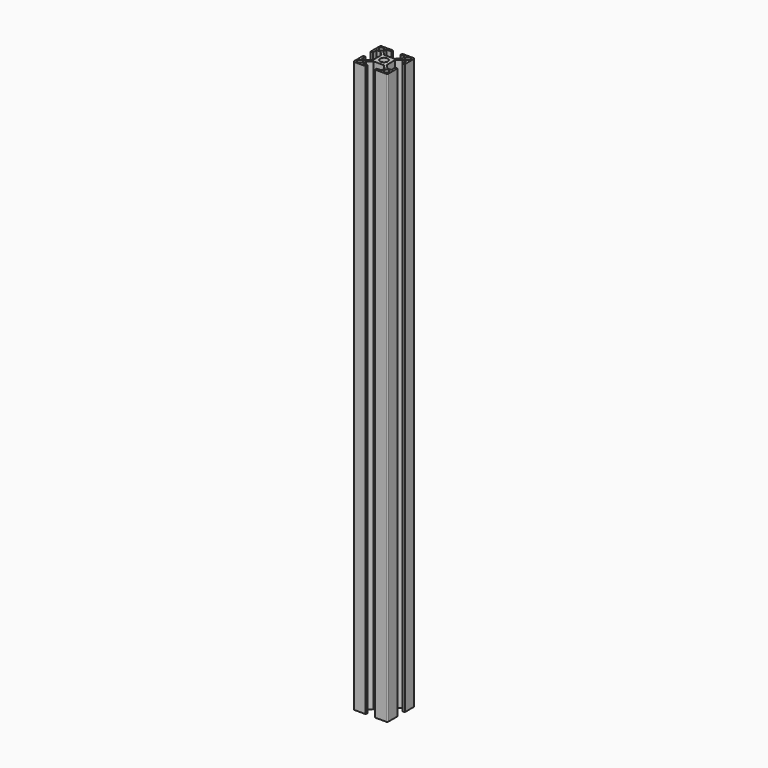
from build123d import *

# Parameters (mm, degrees)
SKETCH_R   = 2.1
SKETCH_R_2 = 3.4
PAD_DEPTH  = 500


with BuildPart() as part:
    # Sketch → Pad (new body)
    with BuildSketch(Plane.XY):
        with BuildLine():
            Line((-6, -4.585786), (-6, 4.585786))
            Line((-6, 4.585786), (-9.664214, 8.25))
            Line((-9.664214, 8.25), (-13, 8.25))
            Line((-13, 8.25), (-13, 4))
            Line((-13, 4), (-15, 4))
            Line((-15, 4), (-15, 14))
            ThreePointArc((-14, 15), (-14.707107, 14.707107), (-15, 14))
            Line((-4, 15), (-14, 15))
            Line((-4, 13), (-4, 15))
            Line((-8.25, 13), (-4, 13))
            Line((-8.25, 9.664214), (-8.25, 13))
            Line((-4.585786, 6), (-8.25, 9.664214))
            Line((4.585786, 6), (-4.585786, 6))
            Line((4.585786, 6), (8.25, 9.664214))
            Line((8.25, 9.664214), (8.25, 13))
            Line((8.25, 13), (4, 13))
            Line((4, 13), (4, 15))
            Line((4, 15), (14, 15))
            ThreePointArc((15, 14), (14.707107, 14.707107), (14, 15))
            Line((15, 4), (15, 14))
            Line((13, 4), (15, 4))
            Line((13, 8.25), (13, 4))
            Line((9.664214, 8.25), (13, 8.25))
            Line((6, 4.585786), (9.664214, 8.25))
            Line((6, 4.585786), (6, -4.585786))
            Line((6, -4.585786), (9.664214, -8.25))
            Line((9.664214, -8.25), (13, -8.25))
            Line((13, -8.25), (13, -4))
            Line((13, -4), (15, -4))
            Line((15, -4), (15, -14))
            ThreePointArc((14, -15), (14.707107, -14.707107), (15, -14))
            Line((14, -15), (4, -15))
            Line((4, -15), (4, -13))
            Line((4, -13), (8.25, -13))
            Line((8.25, -13), (8.25, -9.664214))
            Line((8.25, -9.664214), (4.585786, -6))
            Line((4.585786, -6), (-4.585786, -6))
            Line((-4.585786, -6), (-8.25, -9.664214))
            Line((-8.25, -9.664214), (-8.25, -13))
            Line((-8.25, -13), (-4, -13))
            Line((-4, -13), (-4, -15))
            Line((-4, -15), (-14, -15))
            ThreePointArc((-15, -14), (-14.707107, -14.707107), (-14, -15))
            Line((-15, -4), (-15, -14))
            Line((-13, -4), (-15, -4))
            Line((-13, -8.25), (-13, -4))
            Line((-9.664214, -8.25), (-13, -8.25))
            Line((-6, -4.585786), (-9.664214, -8.25))
        make_face()
        with Locations((-11.6, 11.6)):
            Circle(SKETCH_R, mode=Mode.SUBTRACT)
        Circle(SKETCH_R_2, mode=Mode.SUBTRACT)
        with Locations((11.6, 11.6)):
            Circle(SKETCH_R, mode=Mode.SUBTRACT)
        with Locations((-11.6, -11.6)):
            Circle(SKETCH_R, mode=Mode.SUBTRACT)
        with Locations((11.6, -11.6)):
            Circle(SKETCH_R, mode=Mode.SUBTRACT)
    extrude(amount=PAD_DEPTH)


solid = part.part
